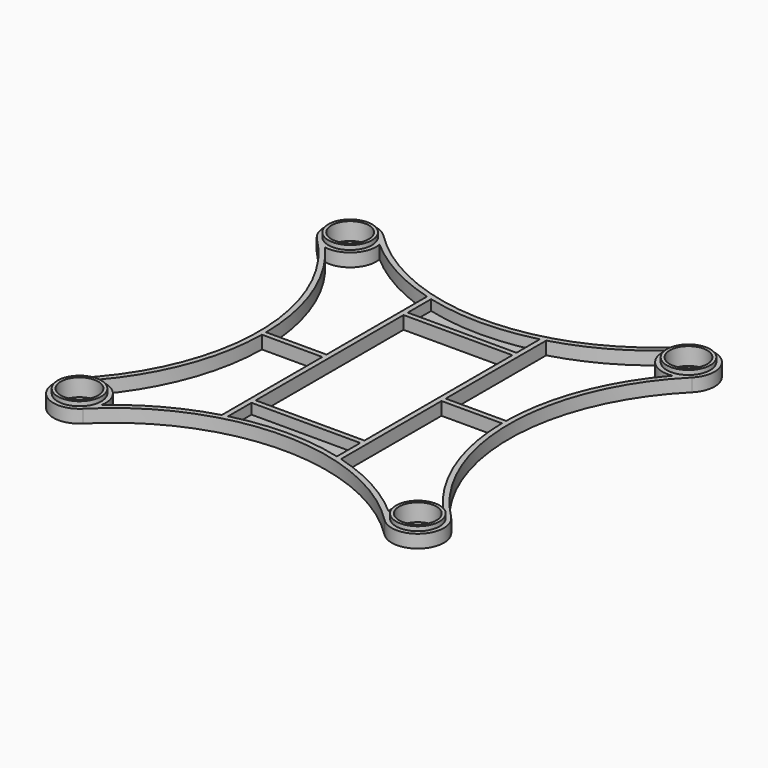
from build123d import *

# Parameters (mm, degrees)
F4_DEPTH = 3
F3_R     = 5
F5_DEPTH = 4
F2_W     = 25
F2_H     = 1.2
F7_DEPTH = 3
F8_DEPTH = 0.6
F6_R     = 4.3
F9_DEPTH = 4.001


with BuildPart() as f4:
    # F1 (on Top) → F4 (new body)
    with BuildSketch(Plane.XY):
        with BuildLine():
            ThreePointArc((-34.648232, 43.133514), (-43.133514, 43.133514), (-43.133514, 34.648232))
            ThreePointArc((-43.133514, 34.648232), (-28.781746, 0), (-43.133514, -34.648232))
            ThreePointArc((-43.133514, -34.648232), (-43.133514, -43.133514), (-34.648232, -43.133514))
            ThreePointArc((-34.648232, -43.133514), (0, -28.781746), (34.648232, -43.133514))
            ThreePointArc((34.648232, -43.133514), (43.133514, -43.133514), (43.133514, -34.648232))
            ThreePointArc((43.133514, -34.648232), (28.781746, 0), (43.133514, 34.648232))
            ThreePointArc((43.133514, 34.648232), (43.133514, 43.133514), (34.648232, 43.133514))
            ThreePointArc((34.648232, 43.133514), (0, 28.781746), (-34.648232, 43.133514))
        make_face()
        with BuildLine():
            ThreePointArc((-32.982909, 39.937754), (0, 27.581746), (32.982909, 39.937754))
            ThreePointArc((32.982909, 39.937754), (34.648232, 34.648232), (39.937754, 32.982909))
            ThreePointArc((39.937754, 32.982909), (27.581746, 0), (39.937754, -32.982909))
            ThreePointArc((39.937754, -32.982909), (34.648232, -34.648232), (32.982909, -39.937754))
            ThreePointArc((32.982909, -39.937754), (0, -27.581746), (-32.982909, -39.937754))
            ThreePointArc((-32.982909, -39.937754), (-34.648232, -34.648232), (-39.937754, -32.982909))
            ThreePointArc((-39.937754, -32.982909), (-27.581746, 0), (-39.937754, 32.982909))
            ThreePointArc((-39.937754, 32.982909), (-34.648232, 34.648232), (-32.982909, 39.937754))
        make_face(mode=Mode.SUBTRACT)
    extrude(amount=F4_DEPTH)

    # F3 (on Top) → F5 (join)
    with BuildSketch(Plane.XY):
        with Locations((-38.890873, 38.890873)):
            Circle(F3_R)
        with Locations((38.890873, 38.890873)):
            Circle(F3_R)
        with Locations((-38.890873, -38.890873)):
            Circle(F3_R)
        with Locations((38.890873, -38.890873)):
            Circle(F3_R)
    extrude(amount=F5_DEPTH)

    # F2 (on Top) → F7 (join, through all)
    with BuildSketch(Plane.XY):
        with BuildLine():
            Line((-12.5, 22.45), (-12.5, 29.162922))
            ThreePointArc((-12.5, 29.162922), (-13.101004, 29.321415), (-13.7, 29.487336))
            Line((-13.7, 29.487336), (-13.7, 23.25))
            Line((-13.7, 23.25), (-13.7, 21.25))
            Line((-13.7, 21.25), (-13.7, 0.6))
            Line((-13.7, 0.6), (-13.7, -0.6))
            Line((-13.7, -0.6), (-13.7, -21.25))
            Line((-13.7, -21.25), (-13.7, -23.25))
            Line((-13.7, -23.25), (-13.7, -29.487336))
            ThreePointArc((-13.7, -29.487336), (-13.101004, -29.321415), (-12.5, -29.162922))
            Line((-12.5, -29.162922), (-12.5, -22.45))
            Line((-12.5, -22.45), (-12.5, -21.25))
            Line((-12.5, -21.25), (-12.5, 21.25))
            Line((-12.5, 21.25), (-12.5, 22.45))
        make_face()
        with BuildLine():
            ThreePointArc((13.7, 29.487336), (13.101004, 29.321415), (12.5, 29.162922))
            Line((12.5, 29.162922), (12.5, 22.45))
            Line((12.5, 22.45), (12.5, 21.25))
            Line((12.5, 21.25), (12.5, -21.25))
            Line((12.5, -21.25), (12.5, -22.45))
            Line((12.5, -22.45), (12.5, -29.162922))
            ThreePointArc((12.5, -29.162922), (13.101004, -29.321415), (13.7, -29.487336))
            Line((13.7, -29.487336), (13.7, -23.25))
            Line((13.7, -23.25), (13.7, -21.25))
            Line((13.7, -21.25), (13.7, -0.6))
            Line((13.7, -0.6), (13.7, 0.6))
            Line((13.7, 0.6), (13.7, 21.25))
            Line((13.7, 21.25), (13.7, 23.25))
            Line((13.7, 23.25), (13.7, 29.487336))
        make_face()
        with Locations((0, 21.85)):
            Rectangle(F2_W, F2_H)
        with Locations((0, -21.85)):
            Rectangle(F2_W, F2_H)
        with BuildLine():
            Line((-13.7, -0.6), (-13.7, 0.6))
            Line((-13.7, 0.6), (-27.585332, 0.6))
            ThreePointArc((-27.585332, 0.6), (-27.581746, 0), (-27.585332, -0.6))
            Line((-27.585332, -0.6), (-13.7, -0.6))
        make_face()
        with BuildLine():
            Line((27.585332, 0.6), (13.7, 0.6))
            Line((13.7, 0.6), (13.7, -0.6))
            Line((13.7, -0.6), (27.585332, -0.6))
            ThreePointArc((27.585332, -0.6), (27.581746, 0), (27.585332, 0.6))
        make_face()
    extrude(amount=F7_DEPTH)

    # F2 (on Top) → F8 (join)
    with BuildSketch(Plane.XY):
        with BuildLine():
            ThreePointArc((12.5, 29.162922), (0, 27.581746), (-12.5, 29.162922))
            Line((-12.5, 29.162922), (-12.5, 22.45))
            Line((-12.5, 22.45), (12.5, 22.45))
            Line((12.5, 22.45), (12.5, 29.162922))
        make_face()
        with BuildLine():
            Line((12.5, -22.45), (-12.5, -22.45))
            Line((-12.5, -22.45), (-12.5, -29.162922))
            ThreePointArc((-12.5, -29.162922), (0, -27.581746), (12.5, -29.162922))
            Line((12.5, -29.162922), (12.5, -22.45))
        make_face()
    extrude(amount=F8_DEPTH)

    # F6 (on Top) → F9 (cut, through all)
    with BuildSketch(Plane.XY):
        with Locations((-38.890873, 38.890873)):
            Circle(F6_R)
        with Locations((38.890873, 38.890873)):
            Circle(F6_R)
        with Locations((-38.890873, -38.890873)):
            Circle(F6_R)
        with Locations((38.890873, -38.890873)):
            Circle(F6_R)
    extrude(amount=F9_DEPTH, mode=Mode.SUBTRACT)


solid = f4.part
